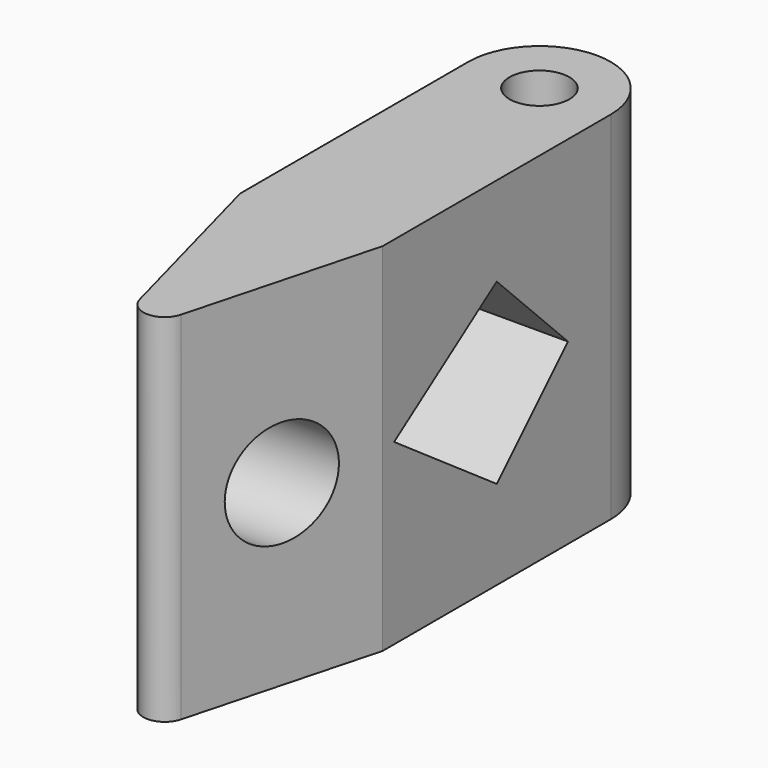
from build123d import *

# Parameters (mm, degrees)
F0_W     = 10
F0_H     = 20
F1_DEPTH = 25
F3_DEPTH = 10.001
F4_R     = 3.75
F5_DEPTH = 12.5
F7_D     = 4.2
F7_DEPTH = 14.4
F7_TIP   = 1.2618073


with BuildPart() as f1:
    # F0 (on Top) → F1 (new body)
    with BuildSketch(Plane.XY):
        with BuildLine():
            Line((1.4488887394, -16.8391867264), (5, -3.5862590786))
            Line((5, -3.5862590786), (-5, -3.5862590786))
            Line((-5, -3.5862590786), (-1.4488887394, -16.8391867264))
            ThreePointArc((-1.4488887394, -16.8391867264), (0, -17.9509581587), (1.4488887394, -16.8391867264))
        make_face()
        with Locations((0, 6.4137409214)):
            Rectangle(F0_W, F0_H)
        with BuildLine():
            Line((-5, 16.4137409214), (5, 16.4137409214))
            ThreePointArc((5, 16.4137409214), (0, 21.4137409214), (-5, 16.4137409214))
        make_face()
    extrude(amount=F1_DEPTH)

    # F2 (on face) → F3 (cut, through all)
    with BuildSketch(Plane.YZ.offset(5)):
        Polygon((12.6637409214, 12.5), (6.4137409214, 18.75), (-2.5862590786, 12.5), (6.4137409214, 6.25), align=None)
    extrude(amount=-F3_DEPTH, mode=Mode.SUBTRACT)

    # F4 (on Right) → F5 (cut, symmetric)
    with BuildSketch(Plane.YZ):
        with Locations((-10.2127229025, 12.5)):
            Circle(F4_R)
    extrude(amount=F5_DEPTH, both=True, mode=Mode.SUBTRACT)

    # F7
    with Locations(Plane.XY.offset(25)):
        with Locations((0, 16.4137409214)):
            Hole(F7_D / 2, depth=F7_DEPTH)
            with Locations((0, 0, -(F7_DEPTH + F7_TIP / 2))):  # 118° drill point
                Cone(0, F7_D / 2, F7_TIP, mode=Mode.SUBTRACT)


solid = f1.part
